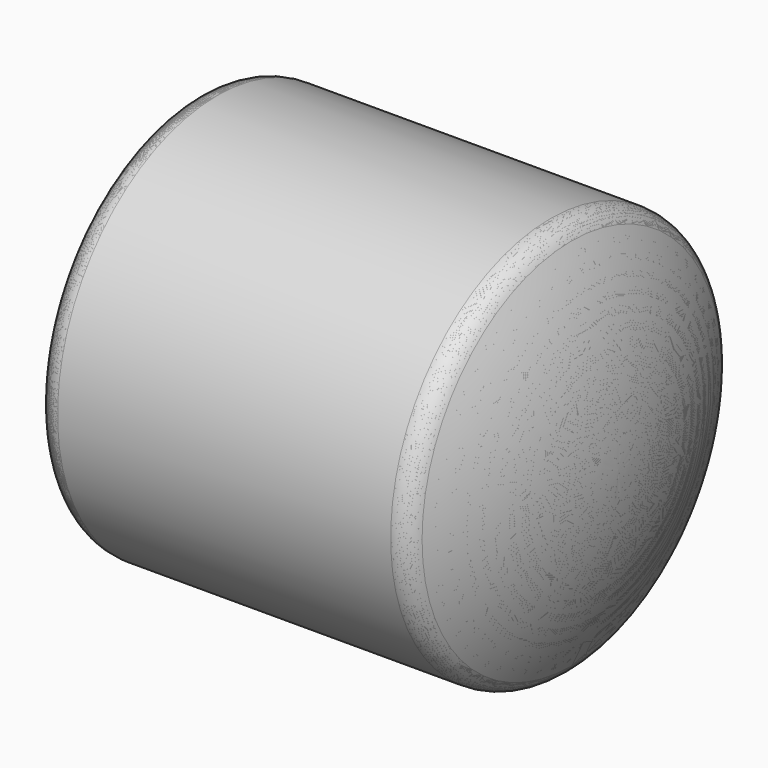
from build123d import *

# Parameters (mm, degrees)
CUT_PLACEMENT_ANGLE     = 270
BODY002_PLACEMENT_ANGLE = 270
CUT001_PLACEMENT_ANGLE  = 90
TUBE_R                  = 300
TUBE_R_2                = 285
TUBE_DEPTH              = 500
BODY005_PLACEMENT_ANGLE = 90
CYLINDER_R              = 300
CYLINDER_DEPTH          = 500


with BuildPart() as innershell:
    # Sketch001 → Revolution (revolve)
    with BuildSketch(Plane(origin=(0, 0, 0), x_dir=(0, 0, -1), z_dir=(0, -1, 0))):
        with BuildLine():
            Line((0, 0), (0, 264))
            Line((0, 264), (0, 290))
            ThreePointArc((0, 290), (-9.710675, 288.118516), (-18.015928, 282.746369))
            ThreePointArc((-18.015928, 282.746369), (-72.904514, 146.082599), (-91.602568, 0))
            Line((0, 0), (-91.602568, 0))
        make_face()
    revolve(axis=Axis((0, 0, 0), (0, 0, -1)))


with BuildPart() as front:
    # Sketch → Revolution001 (revolve)
    with BuildSketch(Plane(origin=(0, 0, 0), x_dir=(0, 0, -1), z_dir=(0, -1, 0))):
        with BuildLine():
            Line((0, 0), (-101.602568, 0))
            ThreePointArc((-31.812563, 280.851138), (-83.893731, 144.696239), (-101.602568, 0))
            ThreePointArc((0, 300), (-18.565547, 294.843484), (-31.812563, 280.851138))
            Line((0, 264), (0, 300))
            Line((0, 0), (0, 264))
        make_face()
    revolve(axis=Axis((0, 0, 0), (0, 0, -1)))

    # Cut: cut InnerShell
    add(innershell.part, mode=Mode.SUBTRACT)


with BuildPart() as front_1:
    # Cut placement: moved
    add(front.part.rotate(Axis((0, 0, 0), (0, 1, 0)), CUT_PLACEMENT_ANGLE))


with BuildPart() as displacedfront:
    # Sketch002 → Revolution002 (revolve)
    with BuildSketch(Plane(origin=(0, 0, 0), x_dir=(0, 0, -1), z_dir=(0, -1, 0))):
        with BuildLine():
            Line((0, 0), (-101.602568, 0))
            ThreePointArc((-31.812576, 280.851114), (-83.893734, 144.696226), (-101.602568, 0))
            ThreePointArc((0, 300), (-18.565558, 294.843477), (-31.812576, 280.851114))
            Line((0, 264), (0, 300))
            Line((0, 0), (0, 264))
        make_face()
    revolve(axis=Axis((0, 0, 0), (0, 0, -1)))


with BuildPart() as displacedfront_1:
    # Body002 placement: moved
    add(displacedfront.part.rotate(Axis((0, 0, 0), (0, 1, 0)), BODY002_PLACEMENT_ANGLE))


with BuildPart() as innershellrear:
    # Sketch004 → Revolution004 (revolve)
    with BuildSketch(Plane(origin=(0, 0, 0), x_dir=(0, 0, -1), z_dir=(0, -1, 0))):
        with BuildLine():
            Line((0, 0), (0, 264))
            Line((0, 264), (0, 290))
            ThreePointArc((0, 290), (-9.710675, 288.118516), (-18.015928, 282.746369))
            ThreePointArc((-18.015928, 282.746369), (-72.904514, 146.082599), (-91.602568, 0))
            Line((0, 0), (-91.602568, 0))
        make_face()
    revolve(axis=Axis((0, 0, 0), (0, 0, -1)))


with BuildPart() as rear:
    # Sketch003 → Revolution003 (revolve)
    with BuildSketch(Plane(origin=(0, 0, 0), x_dir=(0, 0, -1), z_dir=(0, -1, 0))):
        with BuildLine():
            Line((0, 0), (-101.602568, 0))
            ThreePointArc((-31.812563, 280.851138), (-83.893731, 144.696239), (-101.602568, 0))
            ThreePointArc((0, 300), (-18.565547, 294.843484), (-31.812563, 280.851138))
            Line((0, 264), (0, 300))
            Line((0, 0), (0, 264))
        make_face()
    revolve(axis=Axis((0, 0, 0), (0, 0, -1)))

    # Cut001: cut InnerShellRear
    add(innershellrear.part, mode=Mode.SUBTRACT)


with BuildPart() as rear_1:
    # Cut001 placement: moved
    add(rear.part.moved(Location((500, 0, 0))).rotate(Axis((500, 0, 0), (0, 1, 0)), CUT001_PLACEMENT_ANGLE))


with BuildPart() as tube:
    # Tube → Tube (new body)
    with BuildSketch(Plane(origin=(0, 0, 0), x_dir=(0, 0, -1), z_dir=(1, 0, 0))):
        Circle(TUBE_R)
        Circle(TUBE_R_2, mode=Mode.SUBTRACT)
    extrude(amount=TUBE_DEPTH)


with BuildPart() as displacedback:
    # Sketch005 → Revolution005 (revolve)
    with BuildSketch(Plane(origin=(0, 0, 0), x_dir=(0, 0, -1), z_dir=(0, -1, 0))):
        with BuildLine():
            Line((0, 0), (-101.602568, 0))
            ThreePointArc((-31.812576, 280.851114), (-83.893734, 144.696226), (-101.602568, 0))
            ThreePointArc((0, 300), (-18.565558, 294.843477), (-31.812576, 280.851114))
            Line((0, 264), (0, 300))
            Line((0, 0), (0, 264))
        make_face()
    revolve(axis=Axis((0, 0, 0), (0, 0, -1)))


with BuildPart() as displacedback_1:
    # Body005 placement: moved
    add(displacedback.part.moved(Location((500, 0, 0))).rotate(Axis((500, 0, 0), (0, 1, 0)), BODY005_PLACEMENT_ANGLE))


with BuildPart() as displacedtube:
    # Cylinder → Cylinder (new body)
    with BuildSketch(Plane(origin=(0, 0, 0), x_dir=(0, 0, -1), z_dir=(1, 0, 0))):
        Circle(CYLINDER_R)
    extrude(amount=CYLINDER_DEPTH)


solid = Compound([front_1.part, displacedfront_1.part, rear_1.part, tube.part, displacedback_1.part, displacedtube.part])
